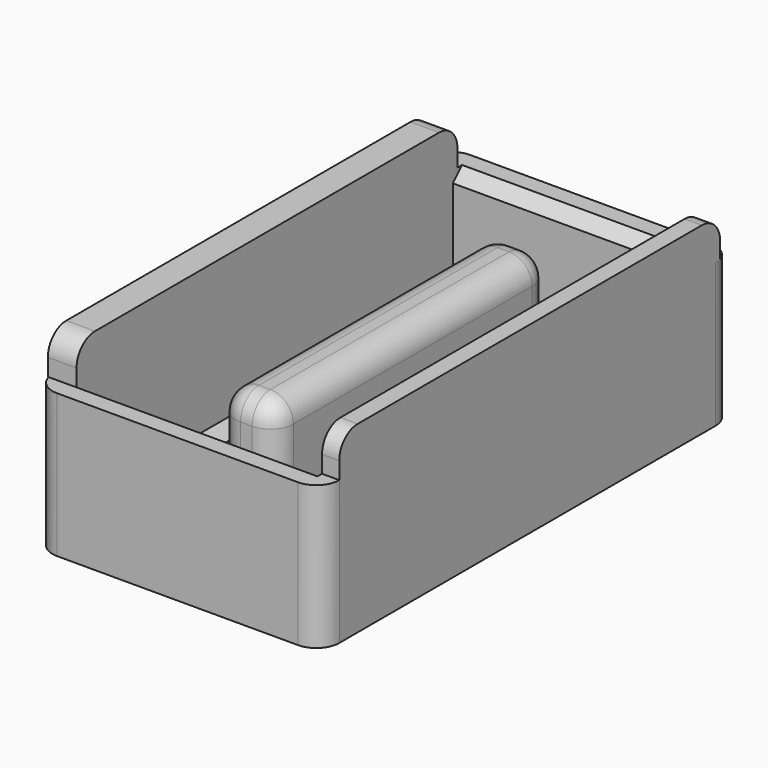
from build123d import *

# Parameters (mm, degrees)
F0_W      = 63.5
F0_H      = 114.3
F1_DEPTH  = 31.75
F2_W      = 50.8
F2_H      = 101.6
F3_DEPTH  = 25.4
F4_W      = 12.7
F4_H      = 76.2
F5_DEPTH  = 25.4
F6_R      = 5.08
F7_SIZE   = 2.54
F8_R      = 5.08
F9_R      = 5.08
F10_W     = 6.35
F10_H     = 105.41
F10_W_2   = 3.81
F11_DEPTH = 8.89
F12_R     = 5.08


with BuildPart() as f1:
    # F0 (on Top) → F1 (new body)
    with BuildSketch(Plane.XY):
        Rectangle(F0_W, F0_H)
    extrude(amount=F1_DEPTH)

    # F2 (on face) → F3 (cut)
    with BuildSketch(Plane.XY.offset(31.75)):
        Rectangle(F2_W, F2_H)
    extrude(amount=-F3_DEPTH, mode=Mode.SUBTRACT)

    # F4 (on face) → F5 (join)
    with BuildSketch(Plane.XY.offset(6.35)):
        Rectangle(F4_W, F4_H)
    extrude(amount=F5_DEPTH)

    # F6
    f6_edges = [f1.edges().sort_by_distance(p)[0] for p in [
        (6.35, -38.1, 19.05),
        (-6.35, -38.1, 19.05),
        (6.35, 38.1, 19.05),
        (-6.35, 38.1, 19.05),
    ]]
    fillet(f6_edges, radius=F6_R)

    # F7
    f7_edges = [f1.edges().sort_by_distance(p)[0] for p in [
        (-25.4, 0, 6.35),
        (0, 50.8, 31.75),
        (25.4, 0, 31.75),
        (0, -50.8, 31.75),
    ]]
    chamfer(f7_edges, length=F7_SIZE)

    # F8
    f8_edges = [f1.edges().sort_by_distance(p)[0] for p in [
        (6.35, 0, 31.75),
        (-6.35, 0, 31.75),
    ]]
    fillet(f8_edges, radius=F8_R)

    # F9
    f9_edges = [f1.edges().sort_by_distance(p)[0] for p in [
        (-31.75, -57.15, 15.875),
        (31.75, -57.15, 15.875),
        (31.75, 57.15, 15.875),
        (-31.75, 57.15, 15.875),
    ]]
    fillet(f9_edges, radius=F9_R)

    # F10 (on face) → F11 (join)
    with BuildSketch(Plane.XY.offset(31.75)):
        with Locations((-28.575, -0.635)):
            Rectangle(F10_W, F10_H)
        with Locations((29.845, 0.635)):
            Rectangle(F10_W_2, F10_H)
    extrude(amount=F11_DEPTH)

    # F12
    f12_edges = [f1.edges().sort_by_distance(p)[0] for p in [
        (-28.575, -53.34, 40.64),
        (29.845, -52.07, 40.64),
        (-28.575, 52.07, 40.64),
        (29.845, 53.34, 40.64),
    ]]
    fillet(f12_edges, radius=F12_R)


solid = f1.part
